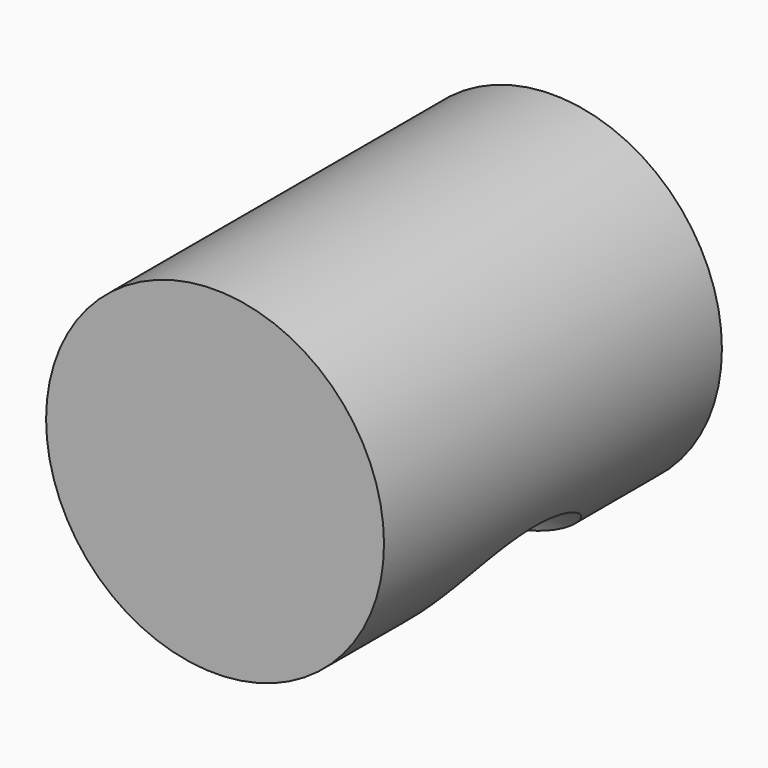
from build123d import *

# Parameters (mm, degrees)
F0_R          = 10
F1_DEPTH      = 25
F2_R          = 7.5
F3_DEPTH      = 10.001
F3_DEPTH_BACK = 10.001
F5_D          = 5.5
F5_DEPTH      = 12
F5_TIP        = 1.6523667023


with BuildPart() as f1:
    # F0 (on Front) → F1 (new body)
    with BuildSketch(Plane.XZ):
        Circle(F0_R)
    extrude(amount=F1_DEPTH)

    # F2 (on Right) → F3 (cut, two sides)
    with BuildSketch(Plane.YZ) as f3_sk:
        with Locations((-12.5, -12)):
            Circle(F2_R)
    extrude(amount=F3_DEPTH, mode=Mode.SUBTRACT)
    extrude(f3_sk.sketch, amount=-F3_DEPTH_BACK, mode=Mode.SUBTRACT)

    # F5
    with Locations(Plane(origin=(0, 0, 0), x_dir=(-1, 0, 0), z_dir=(0, 1, 0))):
        with Locations((0, 0)):
            Hole(F5_D / 2, depth=F5_DEPTH)
            with Locations((0, 0, -(F5_DEPTH + F5_TIP / 2))):  # 118° drill point
                Cone(0, F5_D / 2, F5_TIP, mode=Mode.SUBTRACT)


solid = f1.part
